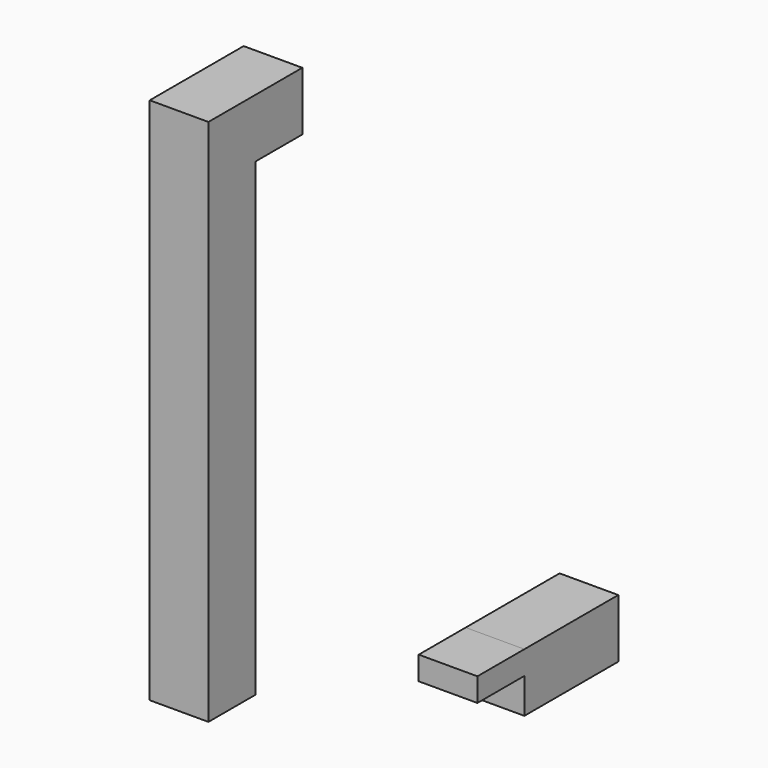
from build123d import *

# Parameters (mm, degrees)
F0_W     = 5
F0_H     = 5
F1_DEPTH = 40
F2_W     = 5
F2_H     = 5
F3_DEPTH = 5
F4_W     = 5
F4_H     = 5.003342
F5_DEPTH = 5
F6_W     = 5
F6_H     = 10
F7_DEPTH = 5
F8_W     = 5
F8_H     = 2.001993
F9_DEPTH = 5


with BuildPart() as f1:
    # F0 (on Top) → F1 (new body)
    with BuildSketch(Plane.XY):
        with Locations((-52.510245, -49.056859)):
            Rectangle(F0_W, F0_H)
    extrude(amount=F1_DEPTH)

    # F2 (on face) → F3 (join)
    with BuildSketch(Plane.XY.offset(40)):
        with Locations((-52.510245, -49.056859)):
            Rectangle(F2_W, F2_H)
        with Locations((-52.510245, -49.056859)):
            Rectangle(F2_W, F2_H)
    extrude(amount=F3_DEPTH)

    # F4 (on face) → F5 (join)
    with BuildSketch(Plane(origin=(0, -46.556859, 0), x_dir=(-1, 0, 0), z_dir=(0, 1, 0))):
        with Locations((52.510245, 42.498329)):
            Rectangle(F4_W, F4_H)
    extrude(amount=F5_DEPTH)


with BuildPart() as f7:
    # F6 (on Top) → F7 (new body)
    with BuildSketch(Plane.XY):
        with Locations((-36.64107, -32.746012)):
            Rectangle(F6_W, F6_H)
    extrude(amount=F7_DEPTH)

    # F8 (on face) → F9 (join)
    with BuildSketch(Plane.XZ.offset(37.746012)):
        with Locations((-36.64107, 3.999003)):
            Rectangle(F8_W, F8_H)
    extrude(amount=F9_DEPTH)


solid = Compound([f1.part, f7.part])
